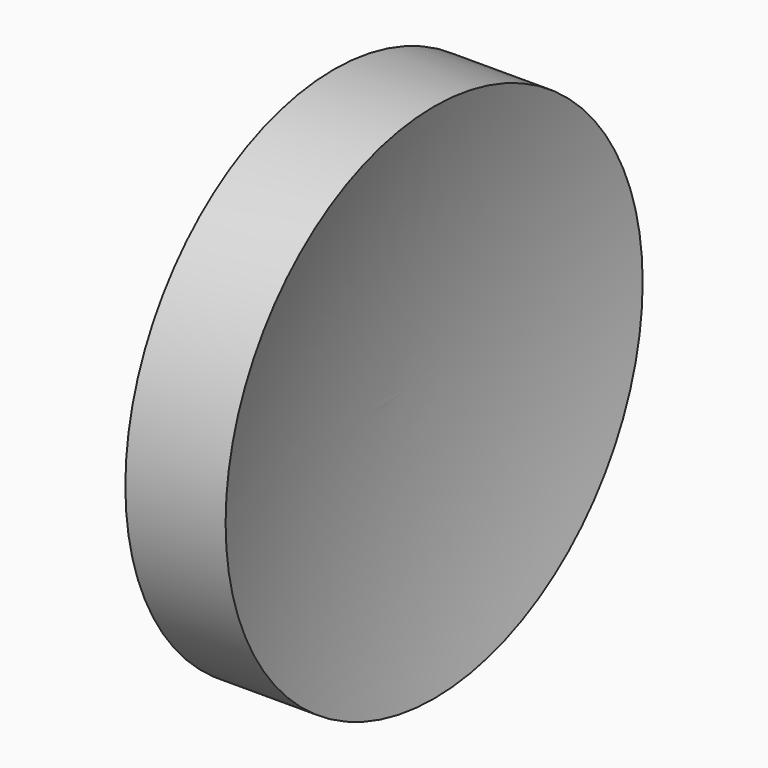
from build123d import *

# Parameters (mm, degrees)
F0_R     = 6.5
F1_DEPTH = 2.5


with BuildPart() as f1:
    # F0 (on Right) → F1 (new body)
    with BuildSketch(Plane.YZ):
        Circle(F0_R)
    extrude(amount=F1_DEPTH)

    # F2 (on Top) → F3 (revolve, cut)
    with BuildSketch(Plane.XY):
        with BuildLine():
            Line((0.75, 0), (0, 0))
            Line((0, 0), (0, -6.5))
            ThreePointArc((0, -6.5), (0.56188, -3.271563), (0.75, 0))
        make_face()
        with BuildLine():
            Line((2.5, -6.5), (2.5, 0))
            Line((2.5, 0), (1.75, 0))
            ThreePointArc((1.75, 0), (1.93812, -3.271563), (2.5, -6.5))
        make_face()
    revolve(axis=Axis((1.25, 0, 0), (1, 0, 0)), mode=Mode.SUBTRACT)


solid = f1.part
